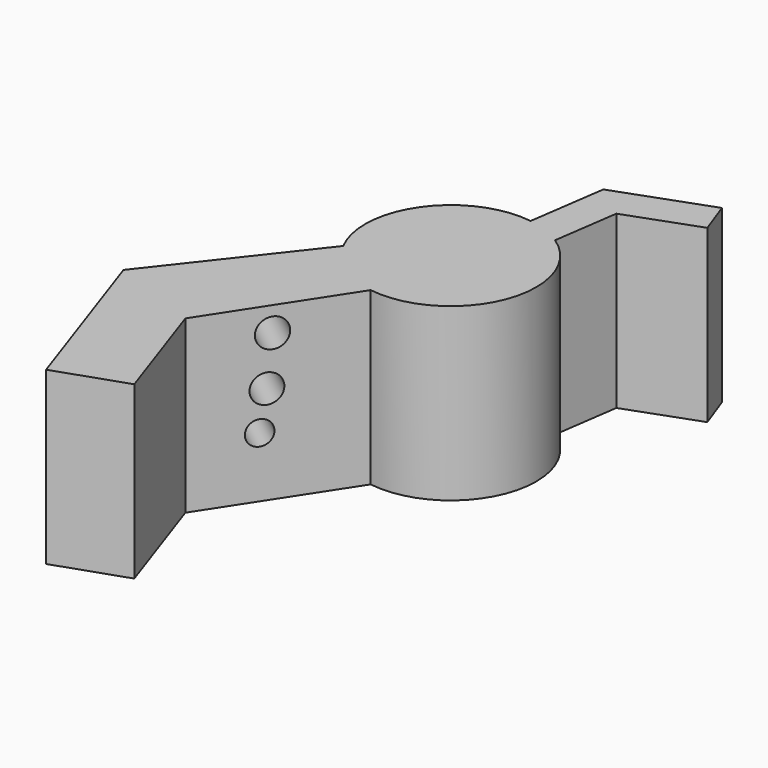
from build123d import *

# Parameters (mm, degrees)
F1_DEPTH = 254
F2_R     = 21.5081394254
F2_R_2   = 21.2401491391
F2_R_3   = 18.0368143136
F3_DEPTH = 508


with BuildPart() as f1:
    # F0 (on Top) → F1 (new body)
    with BuildSketch(Plane.XY):
        with BuildLine():
            Line((-141.7675465345, -315.3224289417), (-18.4107747508, -125.6584393229))
            ThreePointArc((-18.4107747508, -125.6584393229), (-73.462171565, -103.5968597447), (-112.4931326493, -58.943151483))
            Line((-112.4931326493, -58.943151483), (-273.8365273383, -265.0726230773))
            Line((-273.8365273383, -265.0726230773), (-187.4337500558, -516.7677376491))
            Line((-187.4337500558, -516.7677376491), (-84.7189724445, -481.5074503422))
            Line((-84.7189724445, -481.5074503422), (-141.7675465345, -315.3224289417))
        make_face()
        with BuildLine():
            ThreePointArc((-18.4107747508, -125.6584393229), (83.0386404231, -96.0915407134), (127, 0))
            ThreePointArc((127, 0), (111.9461200589, 59.975546715), (70.3532881296, 105.7327520182))
            Line((70.3532881296, 105.7327520182), (52.9691206379, -15.9101414205))
            Line((52.9691206379, -15.9101414205), (-18.4107747508, -125.6584393229))
        make_face()
        with BuildLine():
            ThreePointArc((17.9672085759, 125.7226288939), (45.2772164444, 118.654851022), (70.3532881296, 105.7327520182))
            Line((70.3532881296, 105.7327520182), (84.1430885179, 202.2246444238))
            Line((84.1430885179, 202.2246444238), (188.7985277028, 240.2811646461))
            Line((188.7985277028, 240.2811646461), (170.7594543695, 289.8886203766))
            Line((170.7594543695, 289.8886203766), (34.338939935, 240.2811646461))
            Line((34.338939935, 240.2811646461), (17.9672085759, 125.7226288939))
        make_face()
        with BuildLine():
            Line((52.9691206379, -15.9101414205), (70.3532881296, 105.7327520182))
            ThreePointArc((70.3532881296, 105.7327520182), (45.2772164444, 118.654851022), (17.9672085759, 125.7226288939))
            ThreePointArc((17.9672085759, 125.7226288939), (-103.7263235203, 73.279259064), (-112.4931326493, -58.943151483))
            ThreePointArc((-112.4931326493, -58.943151483), (-73.462171565, -103.5968597447), (-18.4107747508, -125.6584393229))
            Line((-18.4107747508, -125.6584393229), (52.9691206379, -15.9101414205))
        make_face()
    extrude(amount=F1_DEPTH)

    # F2 (on face) → F3 (cut)
    with BuildSketch(Plane(origin=(-41.1472336755, 32.2071090171, 0), x_dir=(-0.6163667256, -0.7874592431, 0), z_dir=(-0.7874592431, 0.6163667256, 0))):
        with Locations((229.6349406242, 217.7096754313)):
            Circle(F2_R)
        with Locations((236.4903837442, 145.9548771381)):
            Circle(F2_R_2)
        with Locations((245.304480195, 89.5107164979)):
            Circle(F2_R_3)
    extrude(amount=-F3_DEPTH, mode=Mode.SUBTRACT)


solid = f1.part
